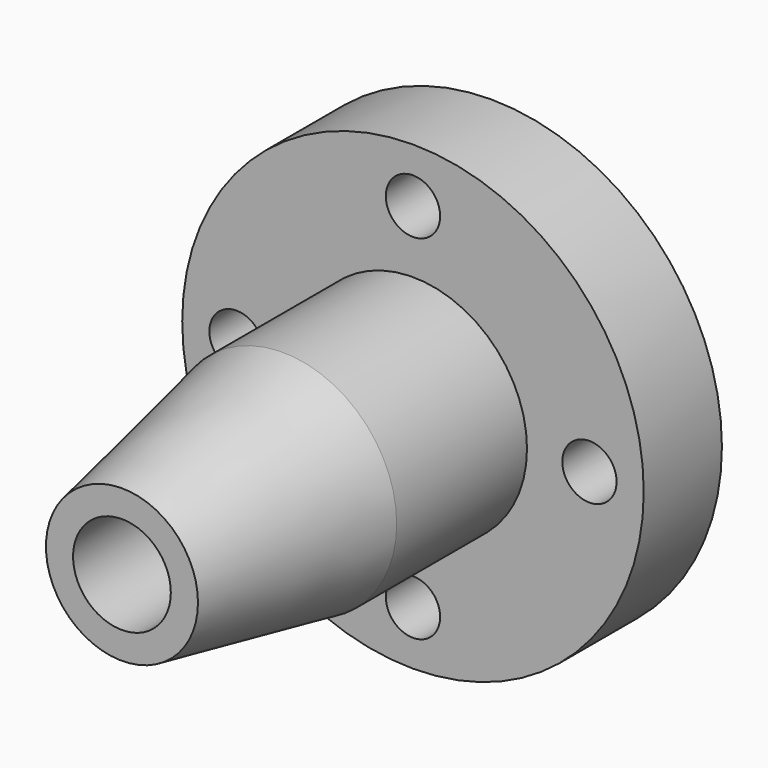
from build123d import *

# Parameters (mm, degrees)
F3_D = 10


with BuildPart() as f1:
    # F0 (on Top) → F1 (revolve)
    with BuildSketch(Plane.XY):
        Polygon((9, 42.5), (9, -42.5), (14, -42.5), (21, -5.5), (21, 24.5), (42.5, 24.5), (42.5, 42.5), align=None)
    revolve(axis=Axis((0, -1.99083, 0), (0, -1, 0)))

    # F3 (through all)
    with Locations(Plane.XZ.offset(-24.5)):
        with Locations((0, 32.5), (32.5, 0), (0, -32.5), (-32.5, 0)):
            Hole(F3_D / 2)


solid = f1.part
